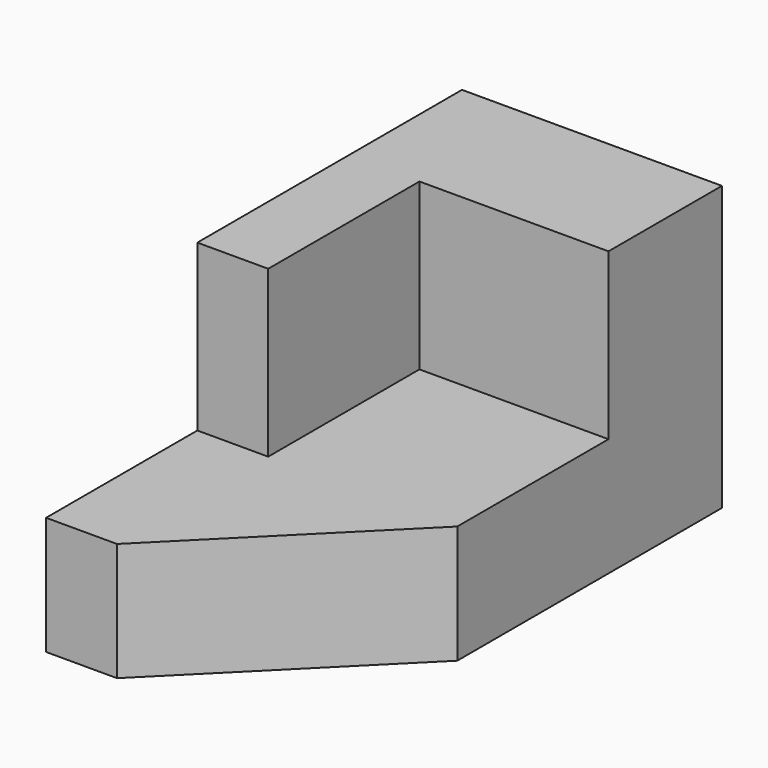
from build123d import *

# Parameters (mm, degrees)
F0_W     = 381
F0_H     = 1016
F0_H_2   = 762
F0_W_2   = 1016
F1_DEPTH = 1524
F2_DEPTH = 635


with BuildPart() as f1:
    # F0 (on Top) → F1 (new body)
    with BuildSketch(Plane.XY):
        with Locations((-1206.5, -1270)):
            Rectangle(F0_W, F0_H)
        with Locations((-1206.5, -381)):
            Rectangle(F0_W, F0_H_2)
        with Locations((-508, -381)):
            Rectangle(F0_W_2, F0_H_2)
    extrude(amount=F1_DEPTH)

    # F0 (on Top) → F2 (join)
    with BuildSketch(Plane.XY):
        Polygon((0, -1778), (0, -762), (-1016, -762), (-1016, -1778), (-1397, -1778), (-1397, -2794), (-1016, -2794), align=None)
    extrude(amount=F2_DEPTH)


solid = f1.part
